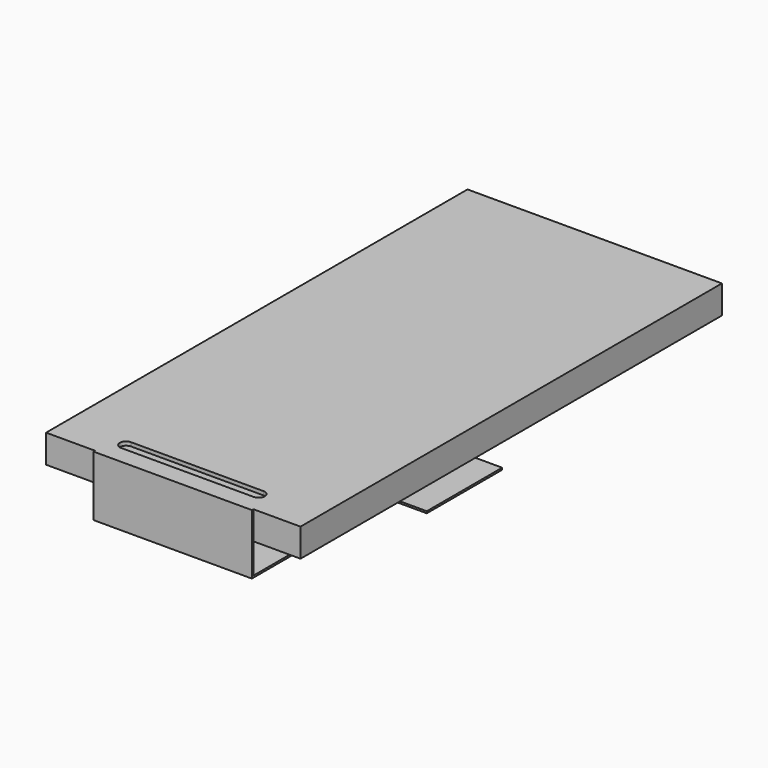
from build123d import *

# Parameters (mm, degrees)
SKETCH_W        = 10.8
SKETCH_H        = 21.7
PAD_DEPTH       = 0.5
SKETCH001_W     = 12.8
SKETCH001_H     = 24.6
PAD001_DEPTH    = 0.6
SKETCH002_W     = 13.5
SKETCH002_H     = 27.95
PAD002_DEPTH    = 1.5
SKETCH003_W     = 8.4
SKETCH003_H     = 1.5
PAD003_DEPTH    = 0.1
PAD003_FACE10_W = 0.1
PAD003_FACE10_H = 8.4
PAD004_DEPTH    = 1.7
SKETCH005_W     = 8.4
SKETCH005_H     = 0.1
PAD005_DEPTH    = 14
SKETCH006_W     = 12.4
SKETCH006_H     = 5
PAD006_DEPTH    = 0.1
POCKET_DEPTH    = 0.2


with BuildPart() as part:
    # Sketch → Pad (new body)
    with BuildSketch(Plane.XY):
        Rectangle(SKETCH_W, SKETCH_H)
    extrude(amount=PAD_DEPTH)

    # Sketch001 (on Face6 of Pad) → Pad001 (join)
    with BuildSketch(Plane.XY.offset(0.5)):
        Rectangle(SKETCH001_W, SKETCH001_H)
    extrude(amount=-PAD001_DEPTH)

    # Sketch002 (on Face4 of Pad001) → Pad002 (join)
    with BuildSketch(Plane.XY.offset(0.5)):
        with Locations((-0.05, -0.775)):
            Rectangle(SKETCH002_W, SKETCH002_H)
    extrude(amount=-PAD002_DEPTH)

    # Sketch003 (on Face6 of Pad002) → Pad003 (join)
    with BuildSketch(Plane.XZ.offset(14.75)):
        with Locations((0, -0.25)):
            Rectangle(SKETCH003_W, SKETCH003_H)
    extrude(amount=PAD003_DEPTH)

    # Pad003 Face10 → Pad004 (add)
    with BuildSketch(Plane(origin=(0, -14.8, -1), x_dir=(0, -1, 0), z_dir=(0, 0, -1))):
        Rectangle(PAD003_FACE10_W, PAD003_FACE10_H)
    extrude(amount=PAD004_DEPTH)

    # Sketch005 (on Face10 of Pad004) → Pad005 (join)
    with BuildSketch(Plane(origin=(0, -14.75, 0), x_dir=(-1, 0, 0), z_dir=(0, 1, 0))):
        with Locations((0, -2.65)):
            Rectangle(SKETCH005_W, SKETCH005_H)
    extrude(amount=PAD005_DEPTH)

    # Sketch006 (on Face23 of Pad005) → Pad006 (join)
    with BuildSketch(Plane(origin=(0, 0, -2.7), x_dir=(1, 0, 0), z_dir=(0, 0, -1))):
        with Locations((0, 3.25)):
            Rectangle(SKETCH006_W, SKETCH006_H)
    extrude(amount=-PAD006_DEPTH)

    # Sketch007 (on Face4 of Pad006) → Pocket (cut)
    with BuildSketch(Plane.XY.offset(0.5)):
        with BuildLine():
            ThreePointArc((-3.515, -13.22), (-3.845, -13.55), (-3.515, -13.88))
            Line((-3.515, -13.88), (3.515, -13.88))
            ThreePointArc((3.515, -13.88), (3.845, -13.55), (3.515, -13.22))
            Line((3.515, -13.22), (-3.515, -13.22))
        make_face()
    extrude(amount=-POCKET_DEPTH, mode=Mode.SUBTRACT)


solid = part.part
